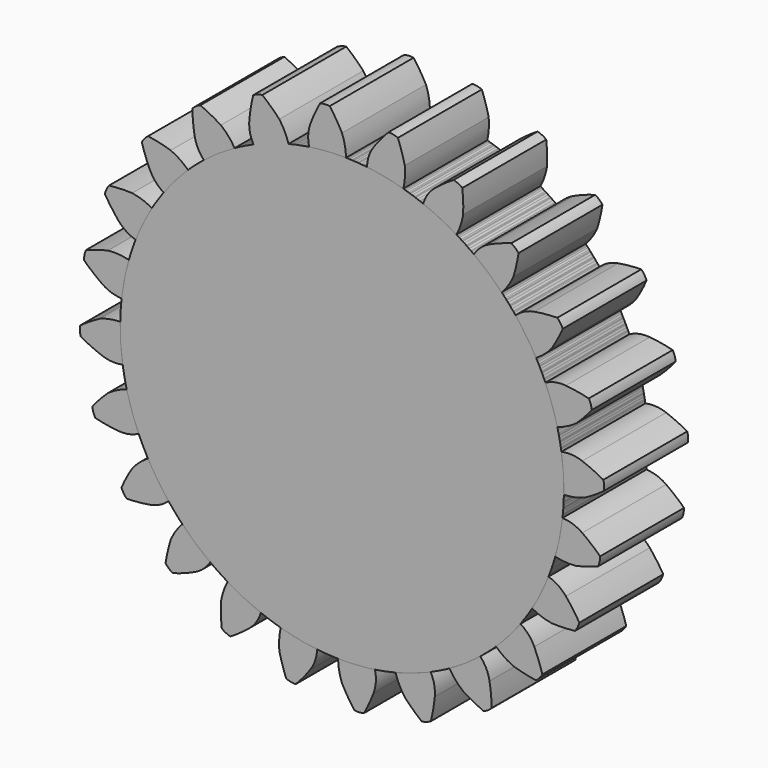
from build123d import *

# Parameters (mm, degrees)
F1_DEPTH = 25.4
F2_COUNT = 24


with BuildPart() as f1:
    # F0 (on Front) → F1 (new body)
    with BuildSketch(Plane.XZ):
        with BuildLine():
            ThreePointArc((-26.584472, 46.682027), (-26.998161, -46.444), (53.721, 0))
            ThreePointArc((53.721, 0), (38.329016, 37.640833), (0.973198, 53.712184))
            ThreePointArc((0.973198, 53.712184), (0.975323, 53.56835), (0.976031, 53.424501))
            ThreePointArc((0.976031, 53.424501), (-10.158313, 39.237867), (-26.584472, 46.682027))
        make_face()
        with BuildLine():
            ThreePointArc((0.976031, 53.424501), (0.975323, 53.56835), (0.973198, 53.712184))
            ThreePointArc((0.973198, 53.712184), (-3.513522, 53.605979), (-7.975719, 53.125641))
            ThreePointArc((-7.975719, 53.125641), (-17.577876, 50.763807), (-26.584472, 46.682027))
            ThreePointArc((-26.584472, 46.682027), (-10.158313, 39.237867), (0.976031, 53.424501))
        make_face()
        with BuildLine():
            ThreePointArc((-7.975719, 53.125641), (-3.513522, 53.605979), (0.973198, 53.712184))
            ThreePointArc((0.973198, 53.712184), (0.702959, 56.235528), (0, 58.674))
            ThreePointArc((0, 58.674), (-1.407123, 61.106797), (-2.989233, 63.429603))
            ThreePointArc((-2.989233, 63.429603), (-4.159903, 63.467853), (-5.315565, 63.277127))
            ThreePointArc((-5.315565, 63.277127), (-6.580952, 60.767686), (-7.658494, 58.172036))
            ThreePointArc((-7.658494, 58.172036), (-8.190615, 55.672318), (-7.975719, 53.125641))
        make_face()
    extrude(amount=F1_DEPTH)


with BuildPart() as f2_1:
    # F2: instance of F1
    add(f1.part.rotate(Axis((0, 0, 0), (0, 1, 0)), 1 * 360 / F2_COUNT))


with BuildPart() as f2_2:
    # F2: instance of F1
    add(f1.part.rotate(Axis((0, 0, 0), (0, 1, 0)), 2 * 360 / F2_COUNT))


with BuildPart() as f2_3:
    # F2: instance of F1
    add(f1.part.rotate(Axis((0, 0, 0), (0, 1, 0)), 3 * 360 / F2_COUNT))


with BuildPart() as f2_4:
    # F2: instance of F1
    add(f1.part.rotate(Axis((0, 0, 0), (0, 1, 0)), 4 * 360 / F2_COUNT))


with BuildPart() as f2_5:
    # F2: instance of F1
    add(f1.part.rotate(Axis((0, 0, 0), (0, 1, 0)), 5 * 360 / F2_COUNT))


with BuildPart() as f2_6:
    # F2: instance of F1
    add(f1.part.rotate(Axis((0, 0, 0), (0, 1, 0)), 6 * 360 / F2_COUNT))


with BuildPart() as f2_7:
    # F2: instance of F1
    add(f1.part.rotate(Axis((0, 0, 0), (0, 1, 0)), 7 * 360 / F2_COUNT))


with BuildPart() as f2_8:
    # F2: instance of F1
    add(f1.part.rotate(Axis((0, 0, 0), (0, 1, 0)), 8 * 360 / F2_COUNT))


with BuildPart() as f2_9:
    # F2: instance of F1
    add(f1.part.rotate(Axis((0, 0, 0), (0, 1, 0)), 9 * 360 / F2_COUNT))


with BuildPart() as f2_10:
    # F2: instance of F1
    add(f1.part.rotate(Axis((0, 0, 0), (0, 1, 0)), 10 * 360 / F2_COUNT))


with BuildPart() as f2_11:
    # F2: instance of F1
    add(f1.part.rotate(Axis((0, 0, 0), (0, 1, 0)), 11 * 360 / F2_COUNT))


with BuildPart() as f2_12:
    # F2: instance of F1
    add(f1.part.rotate(Axis((0, 0, 0), (0, 1, 0)), 12 * 360 / F2_COUNT))


with BuildPart() as f2_13:
    # F2: instance of F1
    add(f1.part.rotate(Axis((0, 0, 0), (0, 1, 0)), 13 * 360 / F2_COUNT))


with BuildPart() as f2_14:
    # F2: instance of F1
    add(f1.part.rotate(Axis((0, 0, 0), (0, 1, 0)), 14 * 360 / F2_COUNT))


with BuildPart() as f2_15:
    # F2: instance of F1
    add(f1.part.rotate(Axis((0, 0, 0), (0, 1, 0)), 15 * 360 / F2_COUNT))


with BuildPart() as f2_16:
    # F2: instance of F1
    add(f1.part.rotate(Axis((0, 0, 0), (0, 1, 0)), 16 * 360 / F2_COUNT))


with BuildPart() as f2_17:
    # F2: instance of F1
    add(f1.part.rotate(Axis((0, 0, 0), (0, 1, 0)), 17 * 360 / F2_COUNT))


with BuildPart() as f2_18:
    # F2: instance of F1
    add(f1.part.rotate(Axis((0, 0, 0), (0, 1, 0)), 18 * 360 / F2_COUNT))


with BuildPart() as f2_19:
    # F2: instance of F1
    add(f1.part.rotate(Axis((0, 0, 0), (0, 1, 0)), 19 * 360 / F2_COUNT))


with BuildPart() as f2_20:
    # F2: instance of F1
    add(f1.part.rotate(Axis((0, 0, 0), (0, 1, 0)), 20 * 360 / F2_COUNT))


with BuildPart() as f2_21:
    # F2: instance of F1
    add(f1.part.rotate(Axis((0, 0, 0), (0, 1, 0)), 21 * 360 / F2_COUNT))


with BuildPart() as f2_22:
    # F2: instance of F1
    add(f1.part.rotate(Axis((0, 0, 0), (0, 1, 0)), 22 * 360 / F2_COUNT))


with BuildPart() as f2_23:
    # F2: instance of F1
    add(f1.part.rotate(Axis((0, 0, 0), (0, 1, 0)), 23 * 360 / F2_COUNT))


solid = Compound([f1.part, f2_1.part, f2_2.part, f2_3.part, f2_4.part, f2_5.part, f2_6.part, f2_7.part, f2_8.part, f2_9.part, f2_10.part, f2_11.part, f2_12.part, f2_13.part, f2_14.part, f2_15.part, f2_16.part, f2_17.part, f2_18.part, f2_19.part, f2_20.part, f2_21.part, f2_22.part, f2_23.part])
